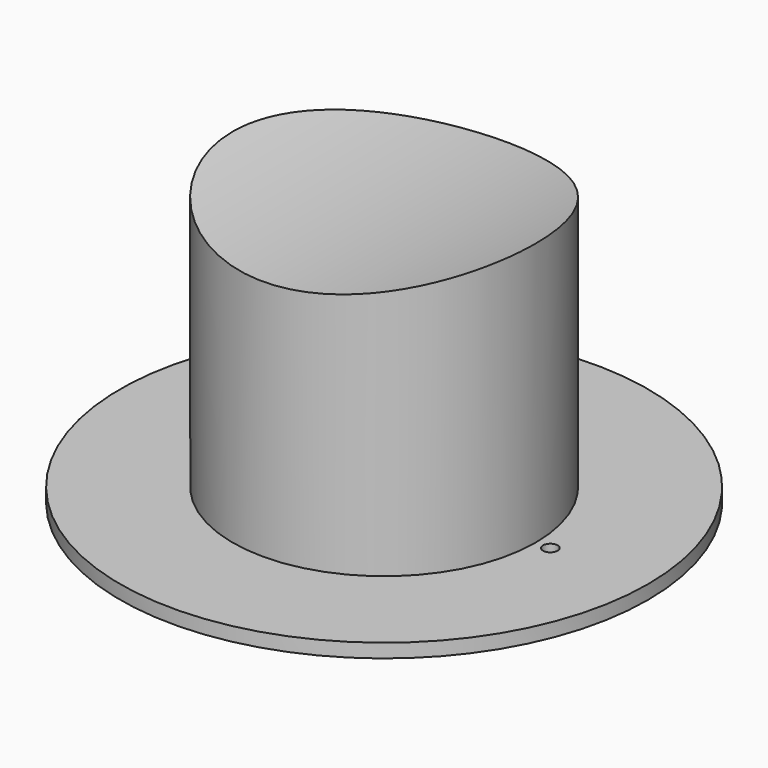
from build123d import *

# Parameters (mm, degrees)
F0_R     = 57.15
F0_R_2   = 1.5875
F0_R_3   = 32.8090175067
F1_DEPTH = 3
F0_R_4   = 30.8090175067
F2_DEPTH = 60
F3_DEPTH = 55
F5_DEPTH = 40.5


with BuildPart() as f1:
    # F0 (on Top) → F1 (new body)
    with BuildSketch(Plane.XY):
        Circle(F0_R)
        with Locations((-35.9840175067, 0)):
            Circle(F0_R_2, mode=Mode.SUBTRACT)
        Circle(F0_R_3, mode=Mode.SUBTRACT)
        with Locations((35.9840175067, 0)):
            Circle(F0_R_2, mode=Mode.SUBTRACT)
    extrude(amount=F1_DEPTH)

    # F0 (on Top) → F2 (join)
    with BuildSketch(Plane.XY):
        Circle(F0_R_3)
        Circle(F0_R_4, mode=Mode.SUBTRACT)
        Circle(F0_R_4)
    extrude(amount=F2_DEPTH)

    # F0 (on Top) → F3 (cut)
    with BuildSketch(Plane.XY):
        Circle(F0_R_4)
    extrude(amount=F3_DEPTH, mode=Mode.SUBTRACT)

    # F4 (on Front) → F5 (cut, symmetric)
    with BuildSketch(Plane.XZ):
        with BuildLine():
            Line((32.8090175067, 60), (-32.8090175067, 60))
            ThreePointArc((-32.8090175067, 60), (0, 55.4277625628), (32.8090175067, 60))
        make_face()
    extrude(amount=F5_DEPTH, both=True, mode=Mode.SUBTRACT)


solid = f1.part
